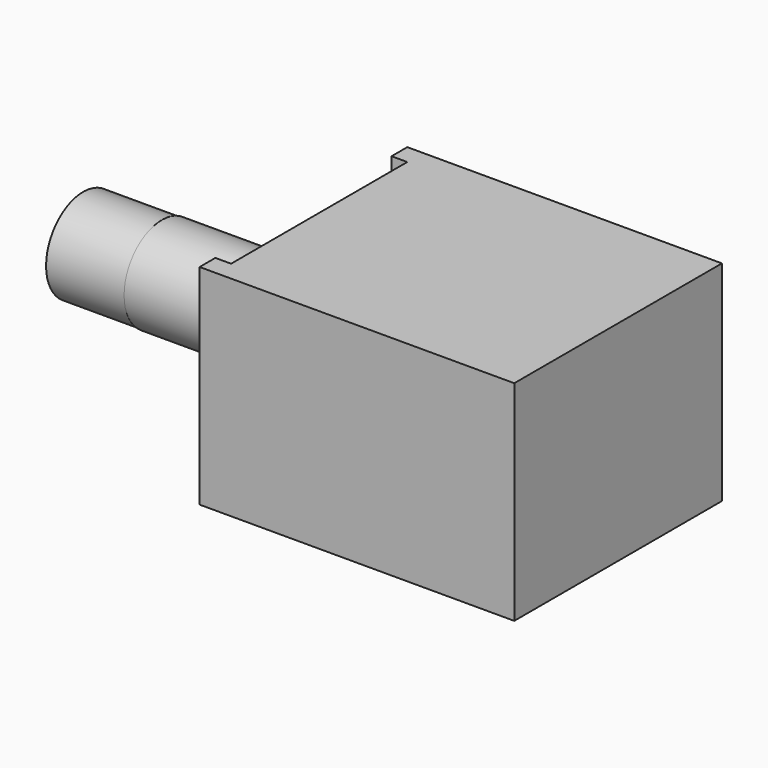
from build123d import *

# Parameters (mm, degrees)
F0_W          = 20
F0_H          = 16.5
F1_DEPTH      = 6.65
F3_W          = 1
F3_H          = 14
F4_DEPTH      = 13.301
F2_R          = 3
F5_DEPTH      = 9
F5_DEPTH_BACK = 1
F6_R          = 2.95
F7_DEPTH      = 5


with BuildPart() as f1:
    # F0 (on Top) → F1 (new body, symmetric)
    with BuildSketch(Plane.XY):
        Rectangle(F0_W, F0_H)
    extrude(amount=F1_DEPTH, both=True)

    # F3 (on face) → F4 (cut, through all)
    with BuildSketch(Plane.XY.offset(6.65)):
        with Locations((-9.5, 0)):
            Rectangle(F3_W, F3_H)
    extrude(amount=-F4_DEPTH, mode=Mode.SUBTRACT)

    # F2 (on face) → F5 (join, two sides)
    with BuildSketch(Plane(origin=(-10, 0, 0), x_dir=(0, -1, 0), z_dir=(-1, 0, 0))) as f5_sk:
        Circle(F2_R)
    extrude(amount=F5_DEPTH)
    extrude(f5_sk.sketch, amount=-F5_DEPTH_BACK)

    # F6 (on face) → F7 (join)
    with BuildSketch(Plane(origin=(-19, 0, 0), x_dir=(0, -1, 0), z_dir=(-1, 0, 0))):
        Circle(F6_R)
    extrude(amount=F7_DEPTH)


solid = f1.part
